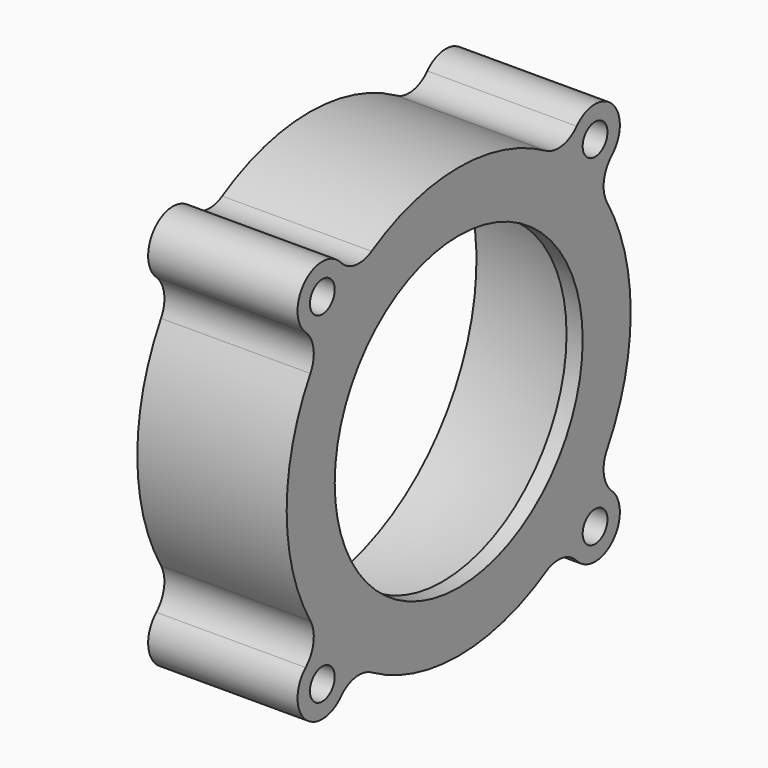
from build123d import *

# Parameters (mm, degrees)
F0_W          = 48.2
F0_H          = 80
F1_DEPTH      = 40
F1_DEPTH_BACK = 40
F4_R          = 64.280801
F5_DEPTH      = 40
F6_R          = 2.5
F7_DEPTH      = 48.201
F8_W          = 100
F8_H          = 100
F9_DEPTH      = 24.101
F10_R         = 5


with BuildPart() as f1:
    # F0 (on Front) → F1 (new body, two sides)
    with BuildSketch(Plane.XZ) as f1_sk:
        Rectangle(F0_W, F0_H)
    extrude(amount=F1_DEPTH)
    extrude(f1_sk.sketch, amount=-F1_DEPTH_BACK)

    # F2 (on Front) → F3 (revolve, cut)
    with BuildSketch(Plane.XZ):
        Polygon((21.5, 25), (-21.5, 25), (-38.466521, 25), (-38.466521, 0), (-21.5, 0), (21.5, 0), (38.466521, 0), (38.466521, 25), align=None)
        with BuildLine():
            Line((-21.5, 27.090665), (-21.5, 25))
            Line((-21.5, 25), (21.5, 25))
            Line((21.5, 25), (21.5, 27.090665))
            ThreePointArc((21.5, 27.090665), (20.363479, 30.264548), (17.470588, 31.995557))
            ThreePointArc((17.470588, 31.995557), (0, 33.707514), (-17.470588, 31.995557))
            ThreePointArc((-17.470588, 31.995557), (-20.363479, 30.264548), (-21.5, 27.090665))
        make_face()
    revolve(axis=Axis((-32.789078, 0, 0), (1, 0, 0)), mode=Mode.SUBTRACT)

    # F4 (on face) → F5 (cut)
    with BuildSketch(Plane.YZ.offset(24.1)):
        Circle(F4_R)
        with BuildLine():
            ThreePointArc((-22.654466, -26.266793), (-31.035534, -31.035534), (-26.266793, -22.654466))
            ThreePointArc((-26.266793, -22.654466), (-34.68673, 0), (-26.266793, 22.654466))
            ThreePointArc((-26.266793, 22.654466), (-31.035534, 31.035534), (-22.654466, 26.266793))
            ThreePointArc((-22.654466, 26.266793), (0, 34.68673), (22.654466, 26.266793))
            ThreePointArc((22.654466, 26.266793), (31.035534, 31.035534), (26.266793, 22.654466))
            ThreePointArc((26.266793, 22.654466), (34.68673, 0), (26.266793, -22.654466))
            ThreePointArc((26.266793, -22.654466), (31.035534, -31.035534), (22.654466, -26.266793))
            ThreePointArc((22.654466, -26.266793), (0, -34.68673), (-22.654466, -26.266793))
        make_face(mode=Mode.SUBTRACT)
    extrude(amount=-F5_DEPTH, mode=Mode.SUBTRACT)

    # F6 (on face) → F7 (cut, through all)
    with BuildSketch(Plane.YZ.offset(24.1)):
        with Locations((-27.5, 27.5)):
            Circle(F6_R)
        with Locations((27.5, 27.5)):
            Circle(F6_R)
        with Locations((-27.5, -27.5)):
            Circle(F6_R)
        with Locations((27.5, -27.5)):
            Circle(F6_R)
    extrude(amount=-F7_DEPTH, mode=Mode.SUBTRACT)

    # F8 (on Right) → F9 (cut, through all)
    with BuildSketch(Plane.YZ):
        Rectangle(F8_W, F8_H)
    extrude(amount=-F9_DEPTH, mode=Mode.SUBTRACT)

    # F10
    f10_edges = [f1.edges().sort_by_distance(p)[0] for p in [
        (12.05, -26.266793, -22.654466),
        (12.05, -26.266793, 22.654466),
        (12.05, 22.654466, 26.266793),
        (12.05, -22.654466, 26.266793),
        (12.05, 26.266793, 22.654466),
        (12.05, 26.266793, -22.654466),
        (12.05, 22.654466, -26.266793),
        (12.05, -22.654466, -26.266793),
    ]]
    fillet(f10_edges, radius=F10_R)


solid = f1.part
